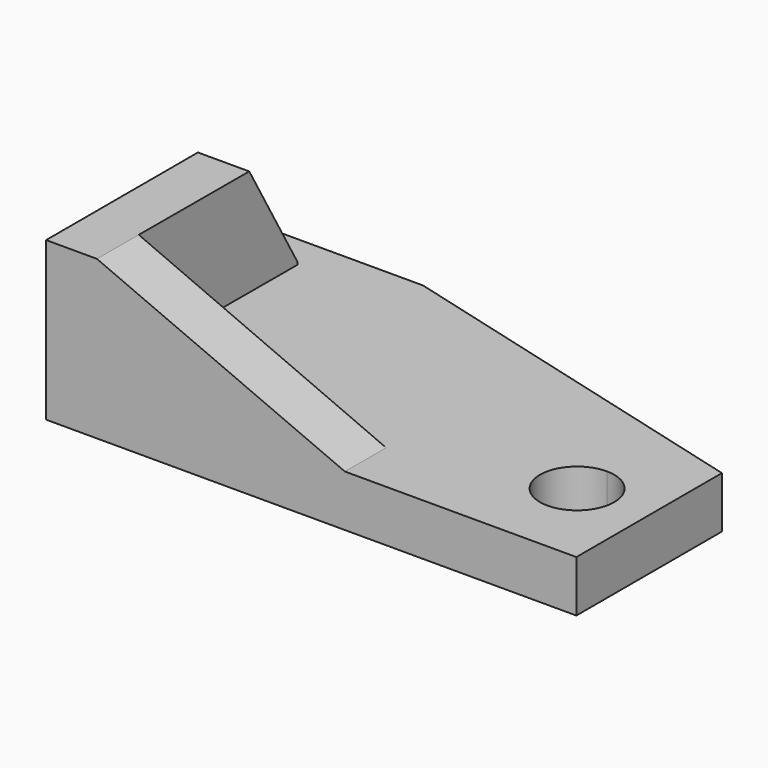
from build123d import *

# Parameters (mm, degrees)
F1_DEPTH   = 10.922
F2_DEPTH   = 33.528
F2_FACE1_W = 10.922
F2_FACE1_H = 22.606
F4_DEPTH   = 53.594
F5_SIZE2   = 12.7582862486
F5_SIZE    = 22.098


with BuildPart() as f1:
    # F0 (on Top) → F1 (new body)
    with BuildSketch(Plane.XY):
        Polygon((-15.4502129098, 28.784671135), (-47.2277541757, 28.784671135), (-47.2277541757, 21.5939618647), (-36.3057541757, 21.5939618647), (-36.4225804595, -20.345826518), (16.1552155546, -20.4922857339), (16.2997870902, -31.413328865), (65.234824773, -31.413328865), (65.234824773, 7.1651804467), align=None)
        with BuildLine():
            ThreePointArc((49.9557780186, -4.2500742092), (55.5235368137, -6.5563154141), (57.8297780186, -12.1240742092))
            ThreePointArc((57.8297780186, -12.1240742092), (44.3880192235, -17.6918330042), (49.9557780186, -4.2500742092))
        make_face(mode=Mode.SUBTRACT)
    extrude(amount=F1_DEPTH)

    # F0 (on Top) → F2 (join)
    with BuildSketch(Plane.XY):
        Polygon((-36.3057541757, 21.5939618647), (-47.2277541757, 21.5939618647), (-47.2277541757, -31.413328865), (-36.4534097798, -31.413328865), (-36.4225804595, -20.345826518), align=None)
        Polygon((-36.4225804595, -20.345826518), (-36.4534097798, -31.413328865), (-15.4502129098, -31.413328865), (16.2997870902, -31.413328865), (16.1552155546, -20.4922857339), align=None)
    extrude(amount=F2_DEPTH)

    # F3 (on face) + F2_face1 (on face) → F4 (cut)
    with BuildSketch(Plane(origin=(-0.0569569325, -20.4471255665, 0), x_dir=(-0.9999961203, 0.0027855608, 0), z_dir=(0.0027855608, 0.9999961203, 0))):
        Polygon((-16.2122353854, 10.922), (36.3657646146, 33.528), (-16.2122353854, 33.528), align=None)
    with BuildSketch(Plane(origin=(16.2275013224, -25.9528072994, 22.225), x_dir=(-0.0132367273, 0.9999123907, 0), z_dir=(0.9999123907, 0.0132367273, 0))):
        Rectangle(F2_FACE1_W, F2_FACE1_H)
    extrude(amount=-F4_DEPTH, dir=(0.0027855608, 0.9999961203, 0), mode=Mode.SUBTRACT)

    # F5
    f5_edges = [f1.edges().sort_by_distance(p)[0] for p in [
        (-41.766754, 21.593962, 33.528),
    ]]
    f5_side = f1.faces().sort_by_distance((-41.766754, 21.593962, 22.225))[0]
    chamfer(f5_edges, length=F5_SIZE, length2=F5_SIZE2, reference=f5_side)


solid = f1.part
